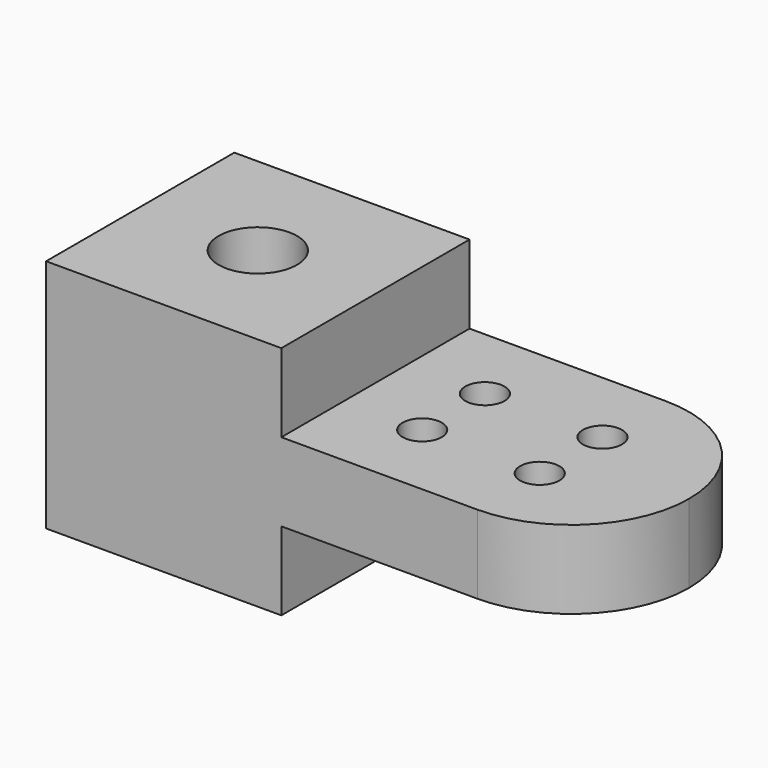
from build123d import *

# Parameters (mm, degrees)
F0_W          = 38.1
F0_H          = 38.1
F0_R          = 2.9865970836
F1_DEPTH      = 25.4
F1_DEPTH_BACK = 12.7
F0_R_2        = 1.9113467105
F0_R_3        = 2.6389393058
F0_R_4        = 1.7228648875
F0_R_5        = 2.6903520454
F2_DEPTH      = 12.7
F3_D          = 12.7
F3_DEPTH      = 12.701
F4_D          = 12.7
F5_D          = 6.35


with BuildPart() as f1:
    # F0 (on Top) → F1 (new body, two sides)
    with BuildSketch(Plane.XY) as f1_sk:
        with Locations((19.05, -19.05)):
            Rectangle(F0_W, F0_H)
        with Locations((19.05, -19.05)):
            Circle(F0_R, mode=Mode.SUBTRACT)
    extrude(amount=F1_DEPTH)
    extrude(f1_sk.sketch, amount=-F1_DEPTH_BACK)

    # F0 (on Top) → F2 (join)
    with BuildSketch(Plane.XY):
        with BuildLine():
            ThreePointArc((69.85, -38.1), (83.3203841816, -32.5203841816), (88.9, -19.05))
            ThreePointArc((88.9, -19.05), (83.3203841816, -5.5796158184), (69.85, 0))
            Line((69.85, 0), (38.1, 0))
            Line((38.1, 0), (38.1, -38.1))
            Line((38.1, -38.1), (69.85, -38.1))
        make_face()
        with Locations((50.7563203573, -25.404298678)):
            Circle(F0_R_2, mode=Mode.SUBTRACT)
        with Locations((69.7955787182, -25.404298678)):
            Circle(F0_R_3, mode=Mode.SUBTRACT)
        with Locations((50.7563203573, -12.7114588395)):
            Circle(F0_R_4, mode=Mode.SUBTRACT)
        with Locations((69.7955787182, -12.7114588395)):
            Circle(F0_R_5, mode=Mode.SUBTRACT)
    extrude(amount=F2_DEPTH)

    # F3 (through all, one way)
    with BuildSketch(Plane.XY):
        with Locations((19.05, -19.05)):
            Circle(F3_D / 2)
    extrude(amount=-F3_DEPTH, mode=Mode.SUBTRACT)

    # F4 (through all)
    with Locations(Plane(origin=(0, 0, 0), x_dir=(1, 0, 0), z_dir=(0, 0, -1))):
        with Locations((19.05, 19.05)):
            Hole(F4_D / 2)

    # F5 (through all)
    with Locations(Plane(origin=(0, 0, 0), x_dir=(1, 0, 0), z_dir=(0, 0, -1))):
        with Locations((50.7563203573, 12.7114588395), (69.7955787182, 12.7114588395), (69.7955787182, 25.404298678), (50.7563203573, 25.404298678)):
            Hole(F5_D / 2)


solid = f1.part
